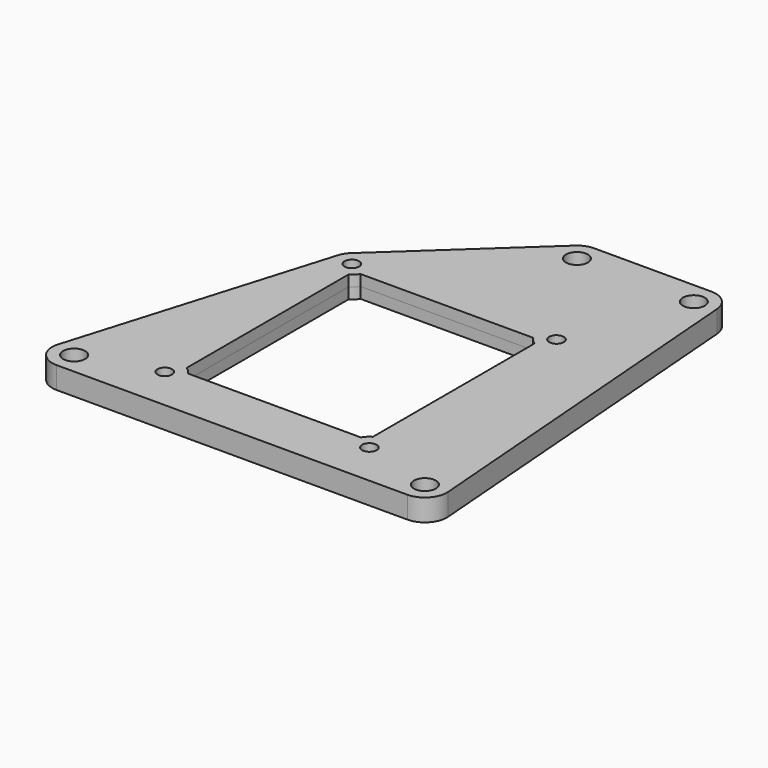
from build123d import *

# Parameters (mm, degrees)
SKETCH001_R    = 1.5
SKETCH001_R_2  = 1
PAD_DEPTH      = 1.5
PAD_DEPTH_BACK = 1.5
SKETCH002_R    = 1
POCKET_DEPTH   = 2


with BuildPart() as part:
    # Sketch001 → Pad (new body, two sides)
    with BuildSketch(Plane.XY) as pad_sk:
        with BuildLine():
            Line((26.990815, -15.765426), (22.990815, 35.234574))
            ThreePointArc((22.990815, 35.234574), (22.036698, 37.202694), (20, 38))
            Line((20, 38), (4, 38))
            ThreePointArc((4, 38), (2.904805, 37.792946), (1.960786, 37.200365))
            Line((1.960786, 37.200365), (-15.699328, 20.833653))
            ThreePointArc((-15.699328, 20.833653), (-16.121162, 20.323129), (-16.394149, 19.719757))
            Line((-26.872979, -15.136292), (-16.394149, 19.719757))
            ThreePointArc((-26.872979, -15.136292), (-26.407397, -17.790094), (-24, -19))
            Line((-24, -19), (24, -19))
            ThreePointArc((24, -19), (26.202694, -18.036698), (26.990815, -15.765426))
        make_face()
        with Locations((20, 35)):
            Circle(SKETCH001_R, mode=Mode.SUBTRACT)
        with Locations((4, 35)):
            Circle(SKETCH001_R, mode=Mode.SUBTRACT)
        with Locations((-24, -16)):
            Circle(SKETCH001_R, mode=Mode.SUBTRACT)
        with Locations((24, -16)):
            Circle(SKETCH001_R, mode=Mode.SUBTRACT)
        with Locations((-14, 19)):
            Circle(SKETCH001_R_2, mode=Mode.SUBTRACT)
        with Locations((14, 19)):
            Circle(SKETCH001_R_2, mode=Mode.SUBTRACT)
        with Locations((-14, -13)):
            Circle(SKETCH001_R_2, mode=Mode.SUBTRACT)
        with Locations((14, -13)):
            Circle(SKETCH001_R_2, mode=Mode.SUBTRACT)
        with BuildLine():
            ThreePointArc((-12.75, 16.834936), (-12.232233, 17.232233), (-11.834936, 17.75))
            Line((-11.834936, 17.75), (11.834936, 17.75))
            ThreePointArc((11.834936, 17.75), (12.232233, 17.232233), (12.75, 16.834936))
            Line((12.75, 16.834936), (12.75, -10.834936))
            ThreePointArc((12.75, -10.834936), (12.232233, -11.232233), (11.834936, -11.75))
            Line((-11.834936, -11.75), (11.834936, -11.75))
            ThreePointArc((-11.834936, -11.75), (-12.232233, -11.232233), (-12.75, -10.834936))
            Line((-12.75, -10.834936), (-12.75, 16.834936))
        make_face(mode=Mode.SUBTRACT)
    extrude(amount=PAD_DEPTH)
    extrude(pad_sk.sketch, amount=-PAD_DEPTH_BACK)

    # Sketch002 → Pocket (cut)
    with BuildSketch(Plane.XY):
        Polygon((-13.278312, -14.25), (-12.556624, -13), (-13.278312, -11.75), (-14.721688, -11.75), (-15.443376, -13), (-14.721688, -14.25), align=None)
        with Locations((-14, -13)):
            Circle(SKETCH002_R, mode=Mode.SUBTRACT)
        Polygon((14.721688, -14.25), (15.443376, -13), (14.721688, -11.75), (13.278312, -11.75), (12.556624, -13), (13.278312, -14.25), align=None)
        with Locations((14, -13)):
            Circle(SKETCH002_R, mode=Mode.SUBTRACT)
        Polygon((14.721688, 17.75), (15.443376, 19), (14.721688, 20.25), (13.278312, 20.25), (12.556624, 19), (13.278312, 17.75), align=None)
        with Locations((14, 19)):
            Circle(SKETCH002_R, mode=Mode.SUBTRACT)
        Polygon((-13.278312, 17.75), (-12.556624, 19), (-13.278312, 20.25), (-14.721688, 20.25), (-15.443376, 19), (-14.721688, 17.75), align=None)
        with Locations((-14, 19)):
            Circle(SKETCH002_R, mode=Mode.SUBTRACT)
    extrude(amount=-POCKET_DEPTH, mode=Mode.SUBTRACT)


solid = part.part
